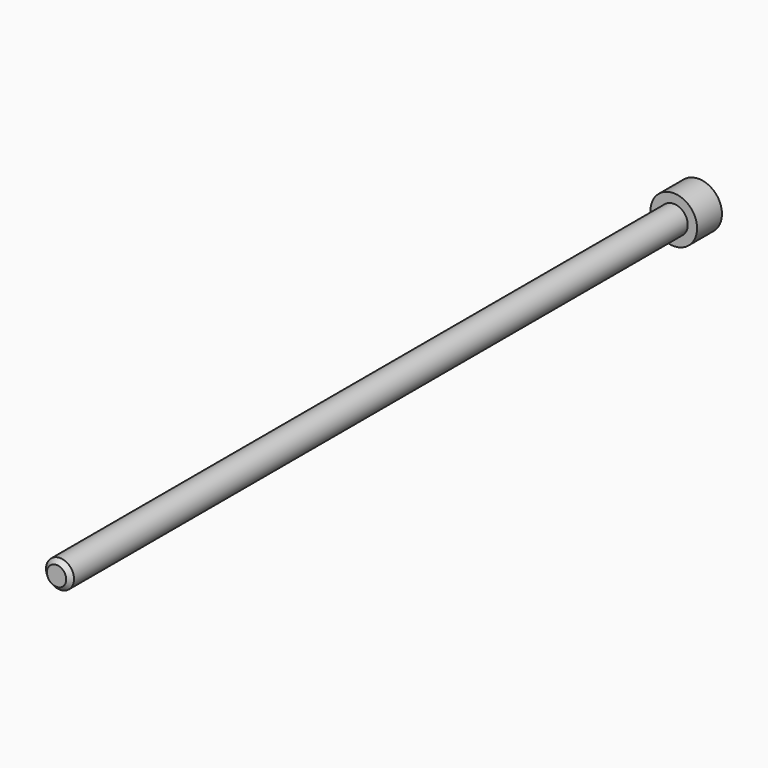
from build123d import *

# Parameters (mm, degrees)
F0_R     = 4.5
F1_DEPTH = 248
F2_R     = 7.5
F3_DEPTH = 10
F4_SIZE  = 1.4


with BuildPart() as f1:
    # F0 (on Front) → F1 (new body)
    with BuildSketch(Plane.XZ):
        Circle(F0_R)
    extrude(amount=F1_DEPTH)

    # F2 (on face) → F3 (join)
    with BuildSketch(Plane(origin=(0, 0, 0), x_dir=(-1, 0, 0), z_dir=(0, 1, 0))):
        Circle(F2_R)
    extrude(amount=F3_DEPTH)

    # F4
    f4_edges = [f1.edges().sort_by_distance(p)[0] for p in [
        (-4.5, -248, 0),
    ]]
    chamfer(f4_edges, length=F4_SIZE)


solid = f1.part
